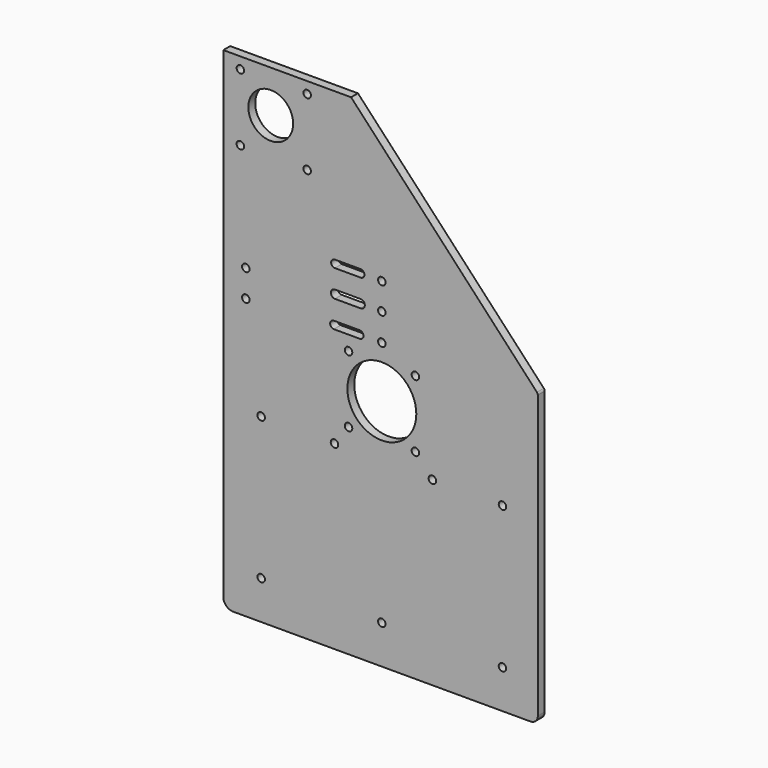
from build123d import *

# Parameters (mm, degrees)
F0_R     = 2.76225
F0_R_2   = 25.4
F0_R_3   = 16.51
F1_DEPTH = 6.35


with BuildPart() as f1:
    # F0 (on Front) → F1 (new body)
    with BuildSketch(Plane.XZ):
        with BuildLine():
            ThreePointArc((-116.824523, -126.062977), (-114.690203, -131.21568), (-109.5375, -133.35))
            Line((-109.5375, -133.35), (109.5375, -133.35))
            ThreePointArc((109.5375, -133.35), (113.365053, -131.764576), (114.950477, -127.937023))
            Line((114.950477, -127.937023), (114.950477, 80.129466))
            ThreePointArc((114.950477, 80.129466), (114.780936, 81.022269), (114.295916, 81.790771))
            Line((114.295916, 81.790771), (-22.650572, 228.6))
            Line((-22.650572, 228.6), (-116.824523, 228.6))
            Line((-116.824523, 228.6), (-116.824523, -126.062977))
        make_face()
        with Locations((-88.9, -104.901456)):
            Circle(F0_R, mode=Mode.SUBTRACT)
        with Locations((-88.9, 0)):
            Circle(F0_R, mode=Mode.SUBTRACT)
        with Locations((-34.8869, 0)):
            Circle(F0_R, mode=Mode.SUBTRACT)
        with Locations((-24.521872, 14.035143)):
            Circle(F0_R, mode=Mode.SUBTRACT)
        with Locations((0, -104.892)):
            Circle(F0_R, mode=Mode.SUBTRACT)
        with Locations((88.9, -104.892)):
            Circle(F0_R, mode=Mode.SUBTRACT)
        with Locations((37.2491, 0)):
            Circle(F0_R, mode=Mode.SUBTRACT)
        with Locations((24.741428, 14.035143)):
            Circle(F0_R, mode=Mode.SUBTRACT)
        with Locations((0, 38.757935)):
            Circle(F0_R_2, mode=Mode.SUBTRACT)
        with Locations((88.9, 0)):
            Circle(F0_R, mode=Mode.SUBTRACT)
        with Locations((-100.235015, 72.767926)):
            Circle(F0_R, mode=Mode.SUBTRACT)
        with Locations((-100.235015, 92.706926)):
            Circle(F0_R, mode=Mode.SUBTRACT)
        with Locations((-24.521872, 63.314512)):
            Circle(F0_R, mode=Mode.SUBTRACT)
        with BuildLine():
            ThreePointArc((-35.329022, 74.0273), (-38.091272, 76.78955), (-35.329022, 79.5518))
            Line((-35.329022, 79.5518), (-16.279022, 79.5518))
            ThreePointArc((-16.279022, 79.5518), (-13.516772, 76.78955), (-16.279022, 74.0273))
            Line((-16.279022, 74.0273), (-35.329022, 74.0273))
        make_face(mode=Mode.SUBTRACT)
        with BuildLine():
            ThreePointArc((-15.590028, 100.023277), (-12.558706, 96.976657), (-15.620548, 93.960711))
            Line((-15.620548, 93.960711), (-34.555083, 93.960711))
            ThreePointArc((-34.555083, 93.960711), (-37.526239, 97.021834), (-34.494806, 100.023277))
            Line((-34.494806, 100.023277), (-15.590028, 100.023277))
        make_face(mode=Mode.SUBTRACT)
        with BuildLine():
            ThreePointArc((-34.555083, 113.905305), (-37.317333, 116.667555), (-34.555083, 119.429805))
            Line((-34.555083, 119.429805), (-15.620548, 119.429805))
            ThreePointArc((-15.620548, 119.429805), (-12.858298, 116.667555), (-15.620548, 113.905305))
            Line((-15.620548, 113.905305), (-34.555083, 113.905305))
        make_face(mode=Mode.SUBTRACT)
        with Locations((-104.251523, 170.950769)):
            Circle(F0_R, mode=Mode.SUBTRACT)
        with Locations((-104.251523, 220.214069)):
            Circle(F0_R, mode=Mode.SUBTRACT)
        with Locations((-81.863739, 197.538808)):
            Circle(F0_R_3, mode=Mode.SUBTRACT)
        with Locations((-54.988223, 170.950769)):
            Circle(F0_R, mode=Mode.SUBTRACT)
        with Locations((-54.988223, 220.214069)):
            Circle(F0_R, mode=Mode.SUBTRACT)
        with Locations((24.741428, 63.314512)):
            Circle(F0_R, mode=Mode.SUBTRACT)
        with Locations((0, 76.78955)):
            Circle(F0_R, mode=Mode.SUBTRACT)
        with Locations((0, 96.991917)):
            Circle(F0_R, mode=Mode.SUBTRACT)
        with Locations((0, 116.667555)):
            Circle(F0_R, mode=Mode.SUBTRACT)
    extrude(amount=F1_DEPTH)


solid = f1.part
